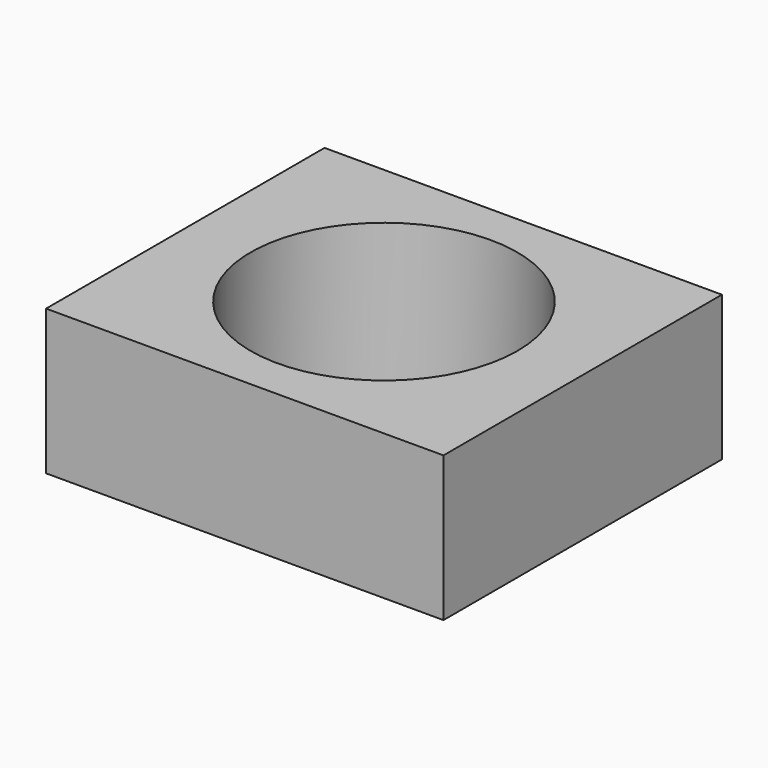
from build123d import *

# Parameters (mm, degrees)
F0_R     = 46
F1_DEPTH = 50


with BuildPart() as f1:
    # F0 (on Top) → F1 (new body)
    with BuildSketch(Plane.XY):
        Circle(F0_R)
        Polygon((68.5, -60), (68.5, 0), (68.5, 60), (0, 60), (-68.5, 60), (-68.5, 0), (-68.5, -60), (0, -60), align=None)
        Circle(F0_R, mode=Mode.SUBTRACT)
    extrude(amount=F1_DEPTH)


solid = f1.part
